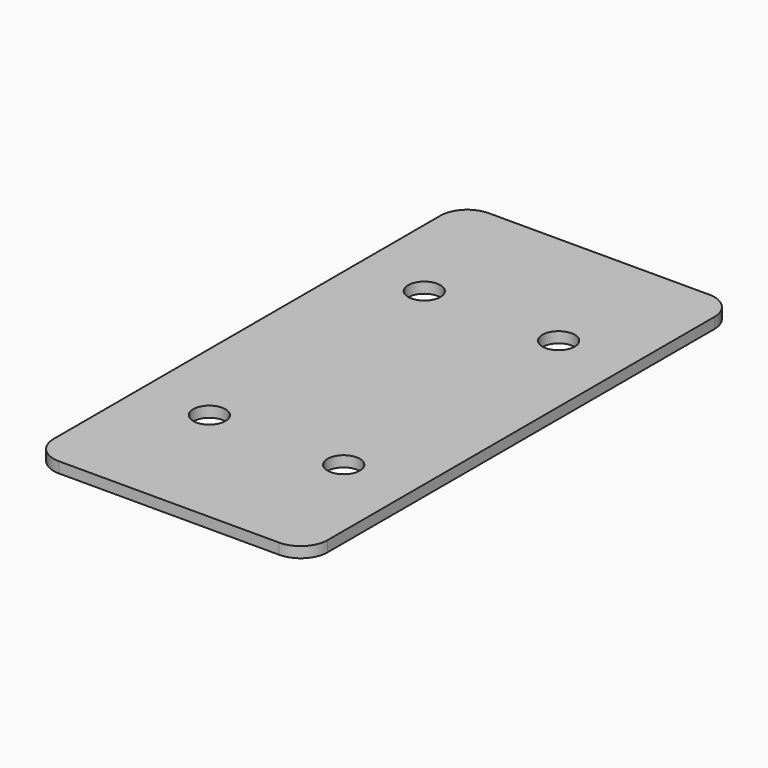
from build123d import *

# Parameters (mm, degrees)
F1_DEPTH = 2
F2_R     = 3
F3_DEPTH = 25


with BuildPart() as f1:
    # F0 (on Top) → F1 (new body)
    with BuildSketch(Plane.XY):
        with BuildLine():
            Line((-20.5, -50), (20.5, -50))
            ThreePointArc((20.5, -50), (24.035534, -48.535534), (25.5, -45))
            Line((25.5, -45), (25.5, 45))
            ThreePointArc((25.5, 45), (24.035534, 48.535534), (20.5, 50))
            Line((20.5, 50), (-20.5, 50))
            ThreePointArc((-20.5, 50), (-24.035534, 48.535534), (-25.5, 45))
            Line((-25.5, 45), (-25.5, -45))
            ThreePointArc((-25.5, -45), (-24.035534, -48.535534), (-20.5, -50))
        make_face()
    extrude(amount=F1_DEPTH)

    # F2 (on face) → F3 (cut)
    with BuildSketch(Plane.XY.offset(2)):
        with Locations((-12.5, 25)):
            Circle(F2_R)
        with Locations((12.5, 25)):
            Circle(F2_R)
        with Locations((-12.5, -25)):
            Circle(F2_R)
        with Locations((12.5, -25)):
            Circle(F2_R)
    extrude(amount=-F3_DEPTH, mode=Mode.SUBTRACT)


solid = f1.part
